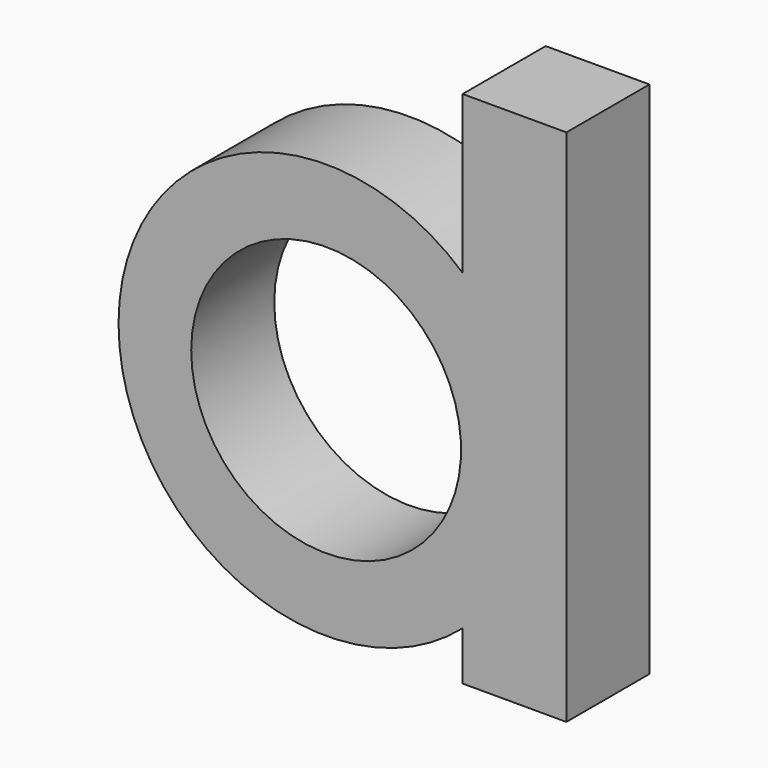
from build123d import *

# Parameters (mm, degrees)
F1_DEPTH = 25.4
F2_D     = 66.04


with BuildPart() as f1:
    # F0 (on Front) → F1 (new body)
    with BuildSketch(Plane.XZ):
        Polygon((63.1830971902, -64.7851199192), (63.1830971902, 62.2148800808), (37.7830971902, 62.2148800808), (37.7830971902, 23.7042096902), (37.7830971902, -52.8655271556), (37.7830971902, -64.7851199192), align=None)
        with BuildLine():
            Line((37.7830971902, -52.8655271556), (37.7830971902, 23.7042096902))
            ThreePointArc((37.7830971902, 23.7042096902), (-46.40715363, -14.5806587327), (37.7830971902, -52.8655271556))
        make_face()
    extrude(amount=F1_DEPTH)

    # F2 (through all)
    with Locations(Plane(origin=(0, 0, 0), x_dir=(1, 0, 0), z_dir=(0, 1, 0))):
        with Locations((4.39284637, 14.5806587327)):
            Hole(F2_D / 2)


solid = f1.part
